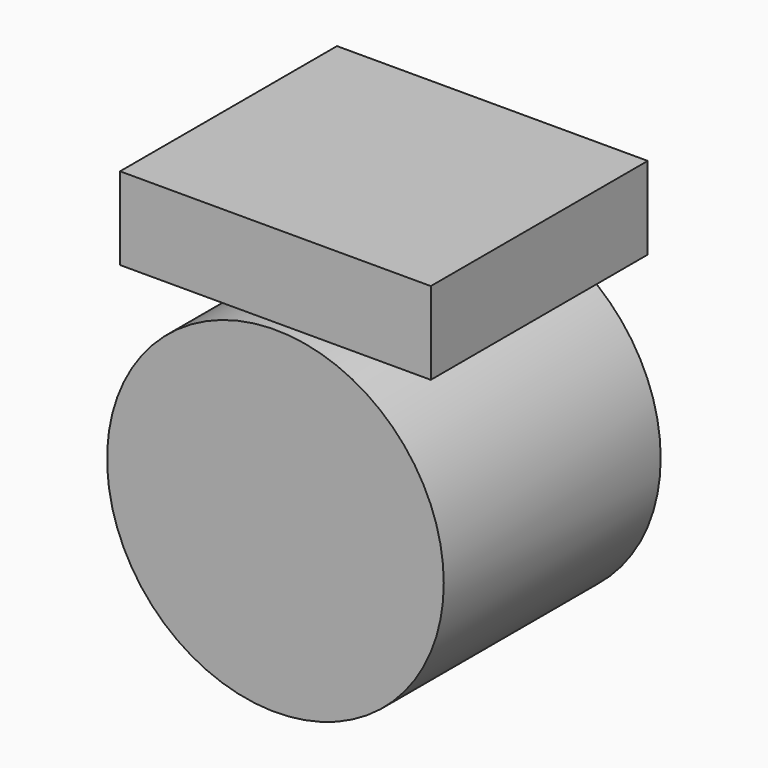
from build123d import *

# Parameters (mm, degrees)
F0_R     = 15.768563
F0_W     = 29.108502
F0_H     = 7.731944
F1_DEPTH = 25.4


with BuildPart() as f1:
    # F0 (on Front) → F1 (new body)
    with BuildSketch(Plane.XZ):
        with Locations((-33.429284, 17.737994)):
            Circle(F0_R)
        with Locations((-33.429284, 37.977498)):
            Rectangle(F0_W, F0_H)
    extrude(amount=F1_DEPTH)


solid = f1.part
